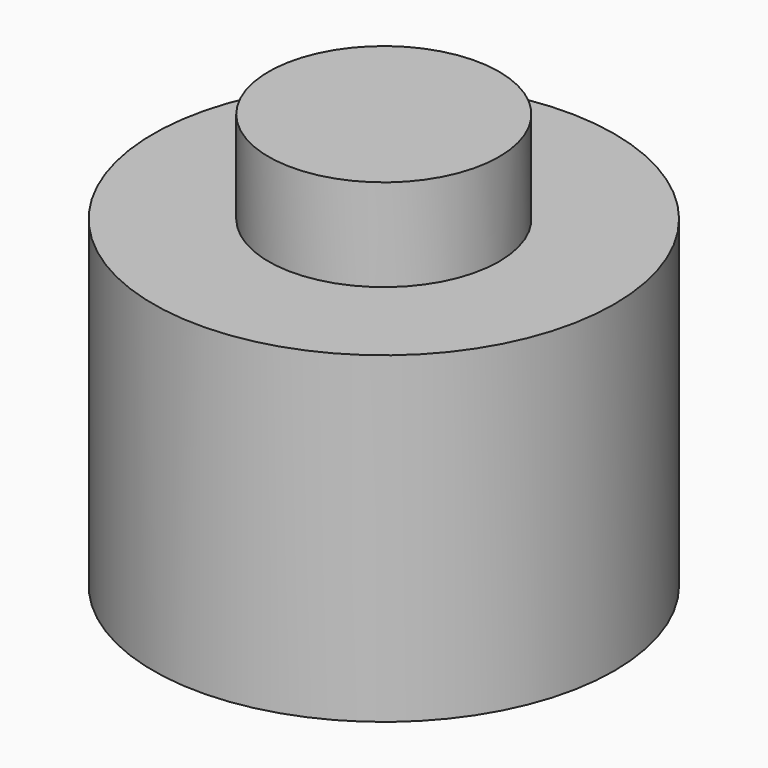
from build123d import *

# Parameters (mm, degrees)
F1_R      = 25
F2_DEPTH  = 25
F2_FACE_R = 25
F3_DEPTH  = 10
F4_R      = 12.5
F5_DEPTH  = 10


with BuildPart() as f2:
    # F1 (on Top) → F2 (new body)
    with BuildSketch(Plane.XY):
        Circle(F1_R)
    extrude(amount=F2_DEPTH)

    # F2_face (on face) → F3 (join)
    with BuildSketch(Plane.XY.offset(25)):
        Circle(F2_FACE_R)
    extrude(amount=F3_DEPTH)

    # F4 (on offset) → F5 (join)
    with BuildSketch(Plane.XY.offset(35)):
        Circle(F4_R)
    extrude(amount=F5_DEPTH)


solid = f2.part
